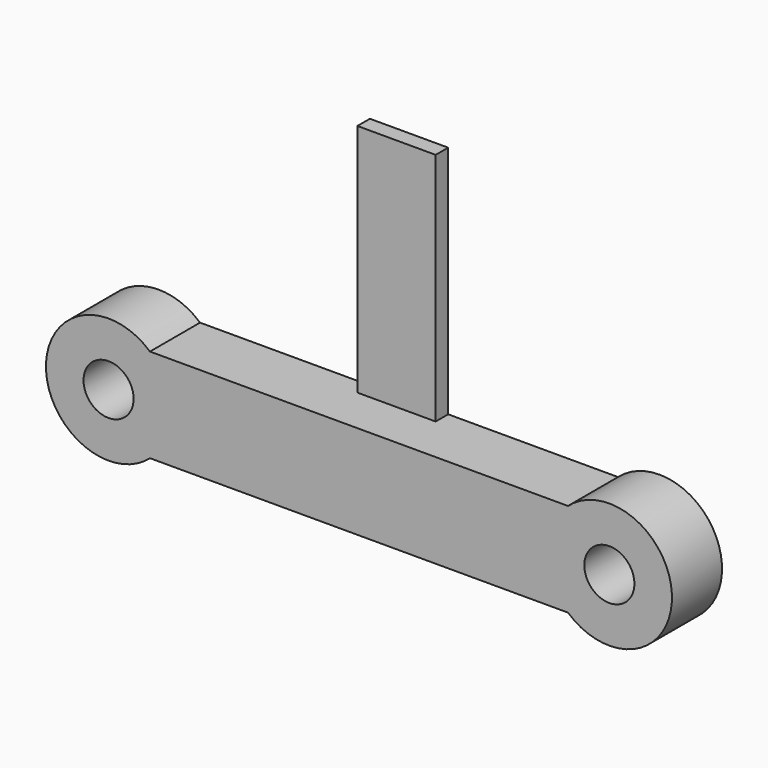
from build123d import *

# Parameters (mm, degrees)
F0_R     = 1.6
F1_DEPTH = 4
F2_W     = 5
F2_H     = 1
F3_DEPTH = 15


with BuildPart() as f1:
    # F0 (on Front) → F1 (new body)
    with BuildSketch(Plane.XZ):
        with BuildLine():
            Line((-13.354249, -3), (13.354249, -3))
            ThreePointArc((13.354249, -3), (20, 0), (13.354249, 3))
            Line((13.354249, 3), (-13.354249, 3))
            ThreePointArc((-13.354249, 3), (-20, 0), (-13.354249, -3))
        make_face()
        with Locations((-16, 0)):
            Circle(F0_R, mode=Mode.SUBTRACT)
        with Locations((16, 0)):
            Circle(F0_R, mode=Mode.SUBTRACT)
    extrude(amount=F1_DEPTH)

    # F2 (on face) → F3 (join)
    with BuildSketch(Plane.XY.offset(3)):
        with Locations((0, -0.5)):
            Rectangle(F2_W, F2_H)
    extrude(amount=F3_DEPTH)


solid = f1.part
